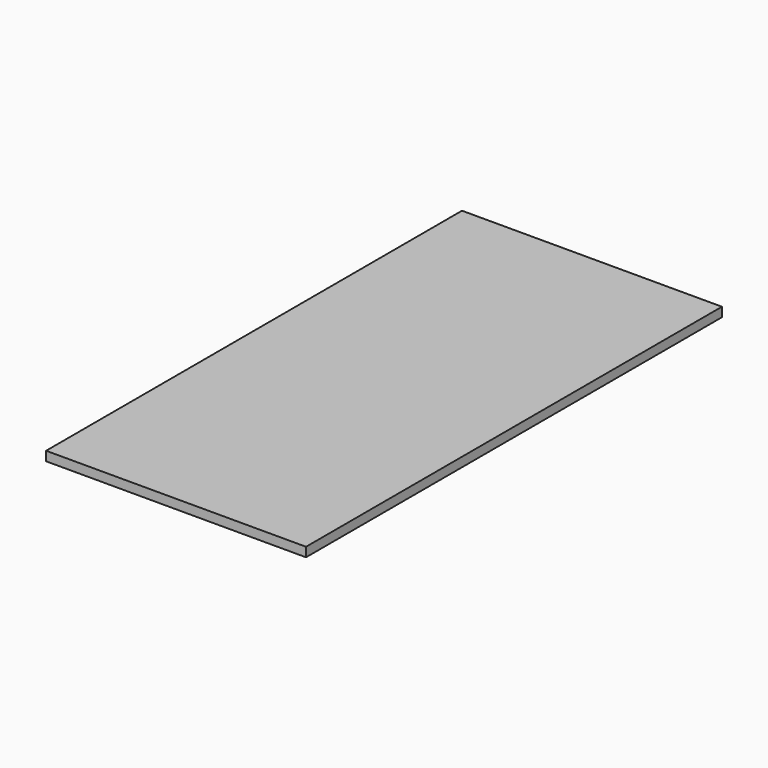
from build123d import *

# Parameters (mm, degrees)
F1_W     = 1066.8
F1_H     = 2133.6
F2_DEPTH = 38.1
F0_W     = 1066.8
F0_H     = 2133.6


with BuildPart() as f2:
    # F1 (on face) → F2 (new body)
    with BuildSketch(Plane.XY):
        Rectangle(F1_W, F1_H)
    extrude(amount=F2_DEPTH)


with BuildPart() as f2b:
    # F0 (on Top) → F2, piece 2 (new body)
    with BuildSketch(Plane.XY):
        Rectangle(F0_W, F0_H)
    extrude(amount=F2_DEPTH)


solid = f2.part
